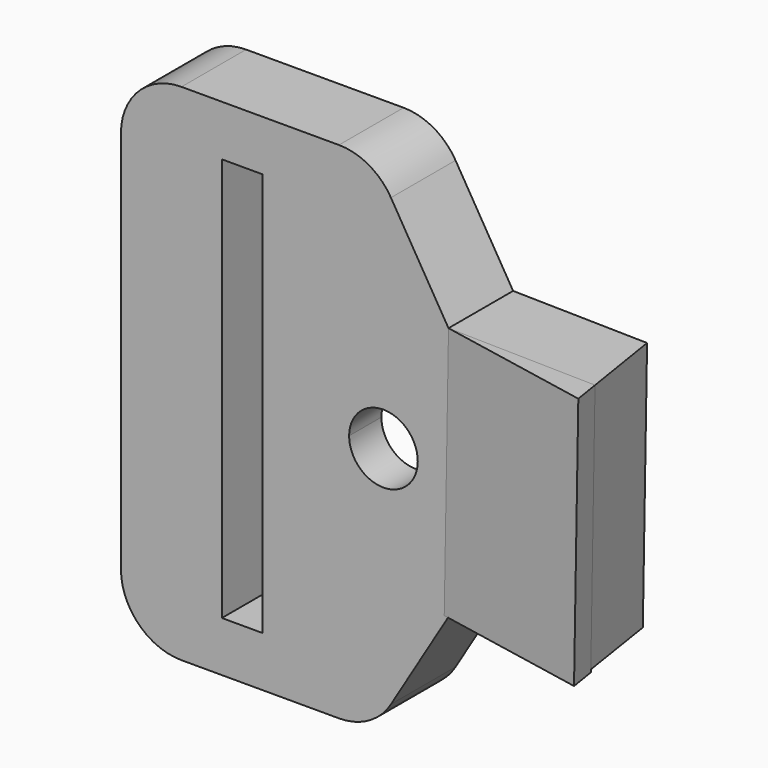
from build123d import *

# Parameters (mm, degrees)
F1_DEPTH = 5.08
F2_R     = 7.1755
F2_R_2   = 2.1589999972
F3_DEPTH = 2.54
F5_DEPTH = 16.002
F6_DEPTH = 25.4


with BuildPart() as f1:
    # F0 (on Front) → F1 (new body)
    with BuildSketch(Plane.XZ):
        with BuildLine():
            ThreePointArc((-24.0773800019, 15.9154809675), (-26.7714568383, 14.7995578038), (-27.8873800019, 12.1054809675))
            Line((-27.8873800019, 12.1054809675), (-27.8873800019, 0.0404809675))
            Line((-27.8873800019, 0.0404809675), (-21.5373800019, 0.0303607256))
            Line((-21.5373800019, 0.0303607256), (-21.5373800019, 12.7283366773))
            Line((-21.5373800019, 12.7283366773), (-18.9973800019, 12.7283366773))
            Line((-18.9973800019, 12.7283366773), (-18.9973800019, 0.0263126289))
            Line((-18.9973800019, 0.0263126289), (-13.5345559632, 0.0176063138))
            ThreePointArc((-13.5345559632, 0.0176063138), (-11.3738382656, 2.1731647505), (-9.2165587051, 0.014165436))
            ThreePointArc((-9.2165587051, 0.014165436), (-9.2165593906, 0.0124449965), (-9.216561447, 0.0107245581))
            Line((-9.216561447, 0.0107245581), (-3.1205702461, 0.0010091399))
            ThreePointArc((-3.1205702461, 0.0010091399), (-3.2577129888, 1.0180311008), (-3.6613210566, 1.9615576391))
            Line((-3.6613210566, 1.9615576391), (-7.2822325162, 8.0117988382))
            Line((-7.2822325162, 8.0117988382), (-10.9031439759, 14.0620400372))
            ThreePointArc((-10.9031439759, 14.0620400372), (-12.2933474445, 15.4198881585), (-14.1723910768, 15.9154809675))
            Line((-14.1723910768, 15.9154809675), (-24.0773800019, 15.9154809675))
        make_face()
        with BuildLine():
            Line((-21.5373800019, 0.0303607256), (-27.8873800019, 0.0404809675))
            Line((-27.8873800019, 0.0404809675), (-27.8873800019, -12.0245190325))
            ThreePointArc((-27.8873800019, -12.0245190325), (-26.7714568383, -14.7185958688), (-24.0773800019, -15.8345190325))
            Line((-24.0773800019, -15.8345190325), (-14.1667308046, -15.8345190325))
            ThreePointArc((-14.1667308046, -15.8345190325), (-12.2914170541, -15.3410380415), (-10.901894216, -13.9884289209))
            Line((-10.901894216, -13.9884289209), (-7.2838128924, -7.97367012))
            Line((-7.2838128924, -7.97367012), (-3.6657315689, -1.9589113191))
            ThreePointArc((-3.6657315689, -1.9589113191), (-3.2599220493, -1.0160093387), (-3.1205702461, 0.0010091399))
            Line((-3.1205702461, 0.0010091399), (-9.216561447, 0.0107245581))
            ThreePointArc((-9.216561447, 0.0107245581), (-11.378999583, -2.1448318221), (-13.5345559632, 0.0176063138))
            Line((-13.5345559632, 0.0176063138), (-18.9973800019, 0.0263126289))
            Line((-18.9973800019, 0.0263126289), (-18.9973800019, -12.6716633227))
            Line((-18.9973800019, -12.6716633227), (-21.5373800019, -12.6716633227))
            Line((-21.5373800019, -12.6716633227), (-21.5373800019, 0.0303607256))
        make_face()
        with BuildLine():
            Line((2.1900159532, 7.8521110746), (-7.2822325162, 8.0117988382))
            Line((-7.2822325162, 8.0117988382), (-3.6613210566, 1.9615576391))
            ThreePointArc((-3.6613210566, 1.9615576391), (-3.2577129888, 1.0180311008), (-3.1205702461, 0.0010091399))
            ThreePointArc((-3.1205702461, 0.0010091399), (-3.2599220493, -1.0160093387), (-3.6657315689, -1.9589113191))
            Line((-3.6657315689, -1.9589113191), (-7.2838128924, -7.97367012))
            Line((-7.2838128924, -7.97367012), (1.9232172503, -7.97367012))
            Line((1.9232172503, -7.97367012), (2.1900159532, 7.8521110746))
        make_face()
    extrude(amount=F1_DEPTH)

    # F2 (on face) → F3 (cut)
    with BuildSketch(Plane(origin=(0, 0, 0), x_dir=(-1, 0, 0), z_dir=(0, 1, 0))):
        with Locations((11.3755587051, 0.014165436)):
            Circle(F2_R)
        with Locations((11.3755587023, 0.014165436)):
            Circle(F2_R_2, mode=Mode.SUBTRACT)
    extrude(amount=-F3_DEPTH, mode=Mode.SUBTRACT)

    # F4 (on face) → F5 (join)
    with BuildSketch(Plane(origin=(0.1329593338, 0, 7.8867899338), x_dir=(0.999857926, 0, -0.0168560904), z_dir=(0.0168560904, 0, 0.999857926))):
        Polygon((1.8028132562, -5.08), (-7.4162455056, -5.08), (2.0573489152, -6.7131863907), align=None)
    extrude(amount=-F5_DEPTH)

    # F4 (on face) → F6 (cut)
    with BuildSketch(Plane(origin=(0.1329593338, 0, 7.8867899338), x_dir=(0.999857926, 0, -0.0168560904), z_dir=(0.0168560904, 0, 0.999857926))):
        Polygon((1.0110841831, 0), (1.8028132562, -5.08), (2.0573489152, -5.08), (2.0573489152, 0), align=None)
    extrude(amount=-F6_DEPTH, mode=Mode.SUBTRACT)


solid = f1.part
